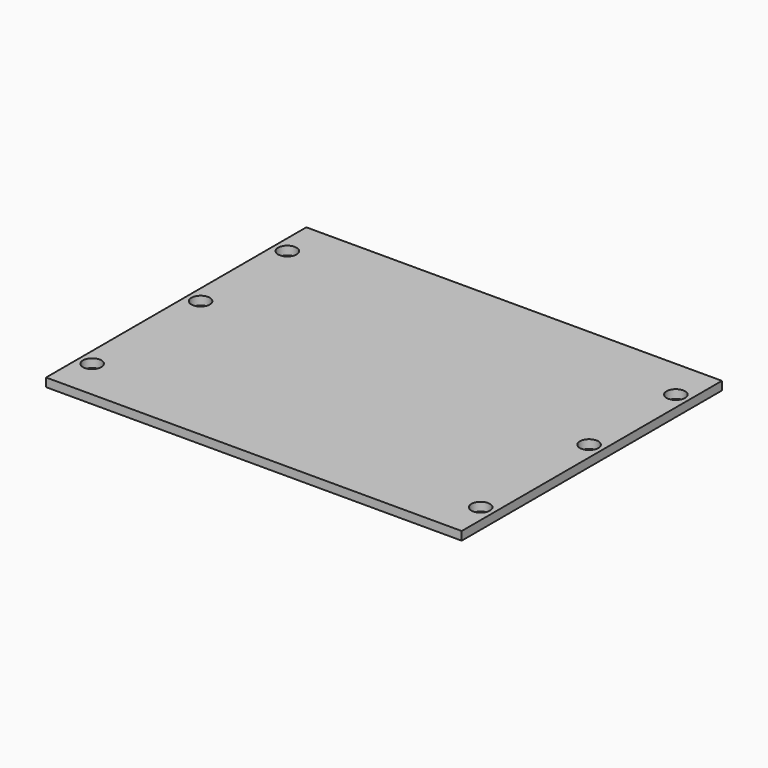
from build123d import *

# Parameters (mm, degrees)
F0_W     = 146.05
F0_H     = 114.3
F0_R     = 3.24
F1_DEPTH = 3


with BuildPart() as f1:
    # F0 (on Top) → F1 (new body)
    with BuildSketch(Plane.XY):
        Rectangle(F0_W, F0_H)
        with Locations((-68.262, -42.862)):
            Circle(F0_R, mode=Mode.SUBTRACT)
        with Locations((68.262, -42.862)):
            Circle(F0_R, mode=Mode.SUBTRACT)
        with Locations((-68.262, 4.763)):
            Circle(F0_R, mode=Mode.SUBTRACT)
        with Locations((-68.262, 42.862)):
            Circle(F0_R, mode=Mode.SUBTRACT)
        with BuildLine():
            Line((-72.225, -1.587), (-68.262, -1.587))
            ThreePointArc((-68.262, -1.587), (-61.912, 4.763), (-68.262, 11.113))
            Line((-68.262, 11.113), (-72.225, 11.113))
            Line((-72.225, 11.113), (-72.225, 36.512))
            Line((-72.225, 36.512), (-68.262, 36.512))
            ThreePointArc((-68.262, 36.512), (-61.912, 42.862), (-68.262, 49.212))
            Line((-68.262, 49.212), (-72.225, 49.212))
            Line((-72.225, 49.212), (-72.225, 56.35))
            Line((-72.225, 56.35), (72.225, 56.35))
            Line((72.225, 56.35), (72.225, 49.212))
            Line((72.225, 49.212), (68.262, 49.212))
            ThreePointArc((68.262, 49.212), (61.912, 42.862), (68.262, 36.512))
            Line((68.262, 36.512), (72.225, 36.512))
            Line((72.225, 36.512), (72.225, 11.113))
            Line((72.225, 11.113), (68.262, 11.113))
            ThreePointArc((68.262, 11.113), (61.912, 4.763), (68.262, -1.587))
            Line((68.262, -1.587), (72.225, -1.587))
            Line((72.225, -1.587), (72.225, -36.512))
            Line((72.225, -36.512), (68.262, -36.512))
            ThreePointArc((68.262, -36.512), (61.912, -42.862), (68.262, -49.212))
            Line((68.262, -49.212), (72.225, -49.212))
            Line((72.225, -49.212), (72.225, -56.35))
            Line((72.225, -56.35), (-72.225, -56.35))
            Line((-72.225, -56.35), (-72.225, -49.212))
            Line((-72.225, -49.212), (-68.262, -49.212))
            ThreePointArc((-68.262, -49.212), (-61.912, -42.862), (-68.262, -36.512))
            Line((-68.262, -36.512), (-72.225, -36.512))
            Line((-72.225, -36.512), (-72.225, -1.587))
        make_face(mode=Mode.SUBTRACT)
        with Locations((68.262, 4.763)):
            Circle(F0_R, mode=Mode.SUBTRACT)
        with Locations((68.262, 42.862)):
            Circle(F0_R, mode=Mode.SUBTRACT)
        with BuildLine():
            ThreePointArc((-68.262, 11.113), (-61.912, 4.763), (-68.262, -1.587))
            Line((-68.262, -1.587), (-72.225, -1.587))
            Line((-72.225, -1.587), (-72.225, -36.512))
            Line((-72.225, -36.512), (-68.262, -36.512))
            ThreePointArc((-68.262, -36.512), (-61.912, -42.862), (-68.262, -49.212))
            Line((-68.262, -49.212), (-72.225, -49.212))
            Line((-72.225, -49.212), (-72.225, -56.35))
            Line((-72.225, -56.35), (72.225, -56.35))
            Line((72.225, -56.35), (72.225, -49.212))
            Line((72.225, -49.212), (68.262, -49.212))
            ThreePointArc((68.262, -49.212), (61.912, -42.862), (68.262, -36.512))
            Line((68.262, -36.512), (72.225, -36.512))
            Line((72.225, -36.512), (72.225, -1.587))
            Line((72.225, -1.587), (68.262, -1.587))
            ThreePointArc((68.262, -1.587), (61.912, 4.763), (68.262, 11.113))
            Line((68.262, 11.113), (72.225, 11.113))
            Line((72.225, 11.113), (72.225, 36.512))
            Line((72.225, 36.512), (68.262, 36.512))
            ThreePointArc((68.262, 36.512), (61.912, 42.862), (68.262, 49.212))
            Line((68.262, 49.212), (72.225, 49.212))
            Line((72.225, 49.212), (72.225, 56.35))
            Line((72.225, 56.35), (-72.225, 56.35))
            Line((-72.225, 56.35), (-72.225, 49.212))
            Line((-72.225, 49.212), (-68.262, 49.212))
            ThreePointArc((-68.262, 49.212), (-61.912, 42.862), (-68.262, 36.512))
            Line((-68.262, 36.512), (-72.225, 36.512))
            Line((-72.225, 36.512), (-72.225, 11.113))
            Line((-72.225, 11.113), (-68.262, 11.113))
        make_face()
    extrude(amount=F1_DEPTH)


solid = f1.part
